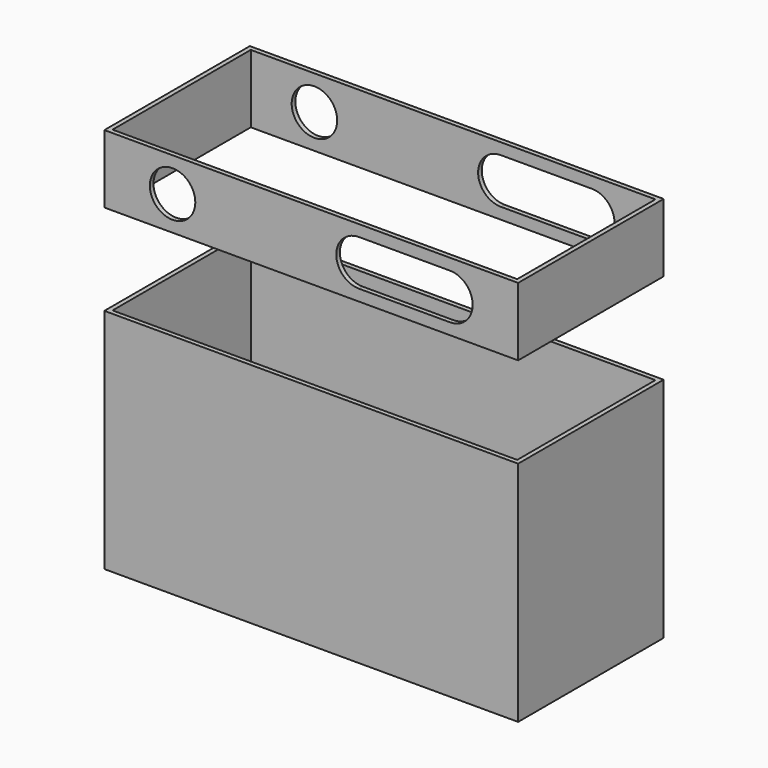
from build123d import *

# Parameters (mm, degrees)
F0_W      = 91
F0_H      = 40
F1_DEPTH  = 25
F2_W      = 89
F2_H      = 38
F3_DEPTH  = 25
F4_W      = 91
F4_H      = 40
F4_W_2    = 89
F4_H_2    = 38
F5_DEPTH  = 25
F7_W      = 91
F7_H      = 40
F7_W_2    = 89
F7_H_2    = 38
F8_DEPTH  = 15
F9_R      = 5
F10_DEPTH = 40.001


with BuildPart() as f1:
    # F0 (on Top) → F1 (new body)
    with BuildSketch(Plane.XY):
        with Locations((45.5, 20)):
            Rectangle(F0_W, F0_H)
    extrude(amount=F1_DEPTH)

    # F2 (on face) → F3 (cut)
    with BuildSketch(Plane.XY.offset(25)):
        with Locations((45.5, 20)):
            Rectangle(F2_W, F2_H)
    extrude(amount=-F3_DEPTH, mode=Mode.SUBTRACT)

    # F4 (on Top) → F5 (join)
    with BuildSketch(Plane.XY):
        with Locations((45.5, 20)):
            Rectangle(F4_W, F4_H)
        with Locations((45.5, 20)):
            Rectangle(F4_W_2, F4_H_2, mode=Mode.SUBTRACT)
    extrude(amount=-F5_DEPTH)


with BuildPart() as f8:
    # F7 (on offset) → F8 (new body)
    with BuildSketch(Plane.XY.offset(60)):
        with Locations((45.5, 20)):
            Rectangle(F7_W, F7_H)
        with Locations((45.5, 20)):
            Rectangle(F7_W_2, F7_H_2, mode=Mode.SUBTRACT)
    extrude(amount=-F8_DEPTH)

    # F9 (on face) → F10 (cut, through all)
    with BuildSketch(Plane.XZ):
        with Locations((15, 52.5)):
            Circle(F9_R)
        with BuildLine():
            Line((76, 57.5), (56, 57.5))
            ThreePointArc((56, 57.5), (51, 52.5), (56, 47.5))
            Line((56, 47.5), (76, 47.5))
            ThreePointArc((76, 47.5), (81, 52.5), (76, 57.5))
        make_face()
    extrude(amount=-F10_DEPTH, mode=Mode.SUBTRACT)


solid = Compound([f1.part, f8.part])
